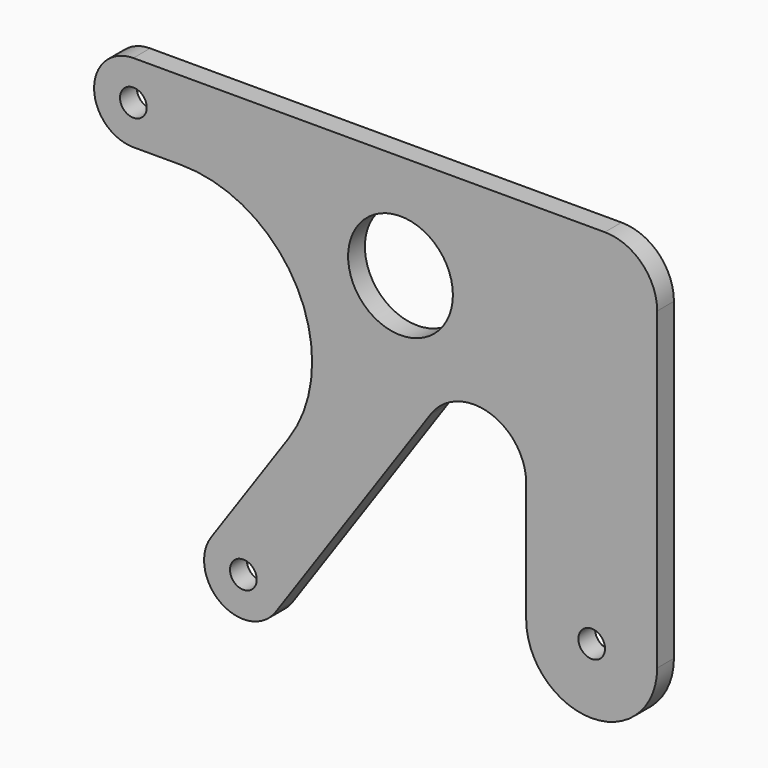
from build123d import *

# Parameters (mm, degrees)
F0_R     = 2.55
F0_R_2   = 10
F1_DEPTH = 4


with BuildPart() as f1:
    # F0 (on Front) → F1 (new body)
    with BuildSketch(Plane.XZ):
        with BuildLine():
            Line((35.226608, 45.571724), (-54.773392, 45.571724))
            ThreePointArc((-54.773392, 45.571724), (-62.273392, 38.071724), (-54.773392, 30.571724))
            Line((-54.773392, 30.571724), (-45.647439, 30.571724))
            ThreePointArc((-45.647439, 30.571724), (-23.509871, 17.187578), (-25.075698, -8.634031))
            Line((-25.075698, -8.634031), (-39.944915, -30.16655))
            ThreePointArc((-39.944915, -30.16655), (-38.035118, -40.599799), (-27.60187, -38.690003))
            Line((-27.60187, -38.690003), (1.997911, 4.17425))
            ThreePointArc((1.997911, 4.17425), (13.202598, 8.038858), (20.226608, -1.508052))
            Line((20.226608, -1.508052), (20.226608, -24.428276))
            ThreePointArc((20.226608, -24.428276), (32.726608, -36.928276), (45.226608, -24.428276))
            Line((45.226608, -24.428276), (45.226608, 35.571724))
            ThreePointArc((45.226608, 35.571724), (42.297676, 42.642792), (35.226608, 45.571724))
        make_face()
        with Locations((-33.773392, -34.428276)):
            Circle(F0_R, mode=Mode.SUBTRACT)
        with Locations((32.726608, -24.428276)):
            Circle(F0_R, mode=Mode.SUBTRACT)
        with Locations((-54.773392, 38.071724)):
            Circle(F0_R, mode=Mode.SUBTRACT)
        with Locations((-3.773392, 25.571724)):
            Circle(F0_R_2, mode=Mode.SUBTRACT)
    extrude(amount=F1_DEPTH)


solid = f1.part
